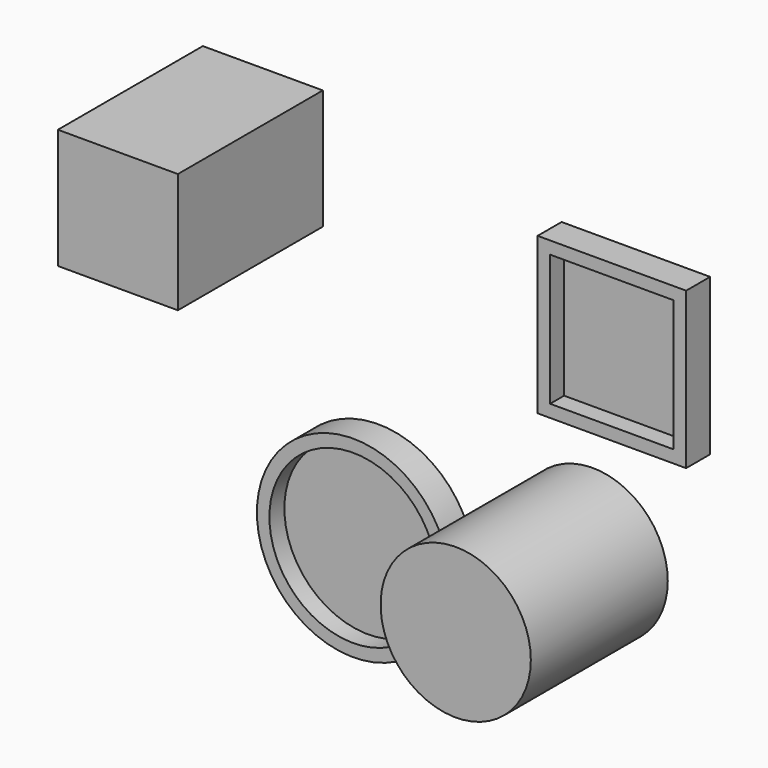
from build123d import *

# Parameters (mm, degrees)
F0_W      = 24.390706
F0_H      = 24.384
F1_DEPTH  = 36.83
F2_T      = -2.54
F3_W      = 30.188734
F3_H      = 31.767224
F4_DEPTH  = 6.096
F5_T      = -2.54
F6_R      = 19.573706
F7_DEPTH  = 6.35
F8_T      = -2.54
F9_R      = 15.269704
F10_DEPTH = 34.798
F11_T     = -2.54


with BuildPart() as f1:
    # F0 (on Front) → F1 (new body)
    with BuildSketch(Plane.XZ):
        with Locations((-43.967679, 30.392964)):
            Rectangle(F0_W, F0_H)
    extrude(amount=F1_DEPTH)

    # F2
    f2_openings = [f1.faces().sort_by_distance(p)[0] for p in [
        (-43.967679, 0, 30.392964),
    ]]
    offset(amount=F2_T, openings=f2_openings)


with BuildPart() as f4:
    # F3 (on Front) → F4 (new body)
    with BuildSketch(Plane.XZ):
        with Locations((31.865883, 18.941948)):
            Rectangle(F3_W, F3_H)
    extrude(amount=F4_DEPTH)

    # F5
    f5_openings = [f4.faces().sort_by_distance(p)[0] for p in [
        (31.865883, -6.096, 18.941948),
    ]]
    offset(amount=F5_T, openings=f5_openings)


with BuildPart() as f7:
    # F6 (on Front) → F7 (new body)
    with BuildSketch(Plane.XZ):
        with Locations((-20.520445, -33.049755)):
            Circle(F6_R)
    extrude(amount=F7_DEPTH)

    # F8
    f8_openings = [f7.faces().sort_by_distance(p)[0] for p in [
        (-20.520445, -6.35, -33.049755),
    ]]
    offset(amount=F8_T, openings=f8_openings)


with BuildPart() as f10:
    # F9 (on Front) → F10 (new body)
    with BuildSketch(Plane.XZ):
        with Locations((23.085499, -22.394909)):
            Circle(F9_R)
    extrude(amount=F10_DEPTH)

    # F11
    f11_openings = [f10.faces().sort_by_distance(p)[0] for p in [
        (23.085499, 0, -22.394909),
    ]]
    offset(amount=F11_T, openings=f11_openings)


solid = Compound([f1.part, f4.part, f7.part, f10.part])
